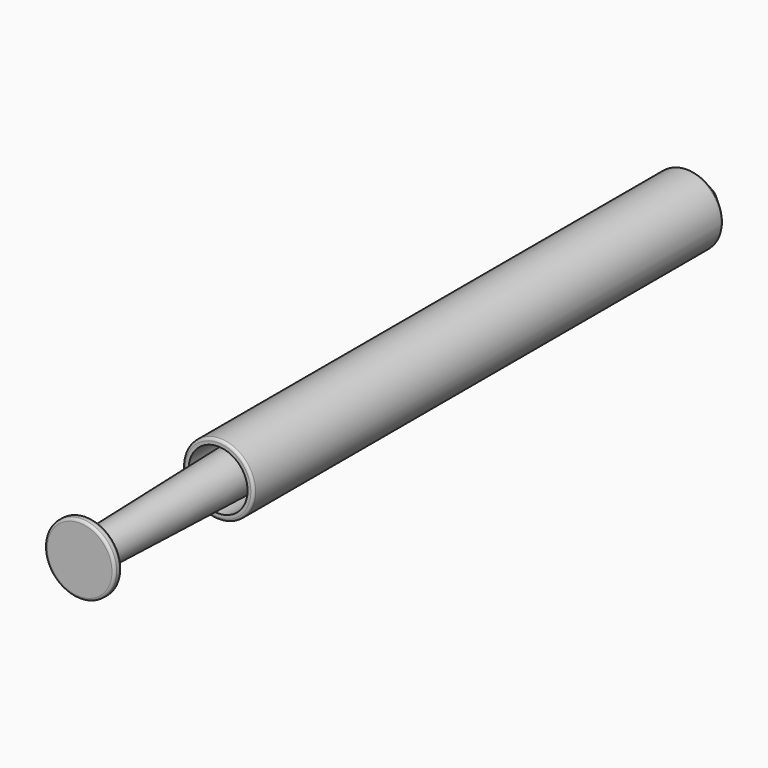
from build123d import *

# Parameters (mm, degrees)
F0_R     = 4.05
F1_DEPTH = 70
F2_SIZE  = 3
F3_R     = 3.3719455649
F4_DEPTH = 35
F5_R     = 3.3500730085
F6_DEPTH = 53.8
F6_TAPER = 1.5
F7_R     = 4
F8_DEPTH = 1
F9_R     = 0.3


with BuildPart() as f1:
    # F0 (on Front) → F1 (new body)
    with BuildSketch(Plane.XZ):
        Circle(F0_R)
    extrude(amount=F1_DEPTH)

    # F2
    f2_edges = [f1.edges().sort_by_distance(p)[0] for p in [
        (-4.05, 0, 0),
    ]]
    chamfer(f2_edges, length=F2_SIZE)

    # F3 (on face) → F4 (cut)
    with BuildSketch(Plane.XZ.offset(70)):
        Circle(F3_R)
    extrude(amount=-F4_DEPTH, mode=Mode.SUBTRACT)

    # F5 (on face) → F6 (join)
    with BuildSketch(Plane.XZ.offset(35)):
        Circle(F5_R)
    extrude(amount=F6_DEPTH, taper=F6_TAPER)

    # F7 (on face) → F8 (join)
    with BuildSketch(Plane.XZ.offset(88.8)):
        Circle(F7_R)
    extrude(amount=F8_DEPTH)

    # F9
    f9_edges = [f1.edges().sort_by_distance(p)[0] for p in [
        (-4.05, -70, 0),
        (-4.05, -3, 0),
        (-1.05, 0, 0),
        (-1.94127, -88.8, 0),
        (-4, -88.8, 0),
        (-4, -89.8, 0),
    ]]
    fillet(f9_edges, radius=F9_R)


solid = f1.part
